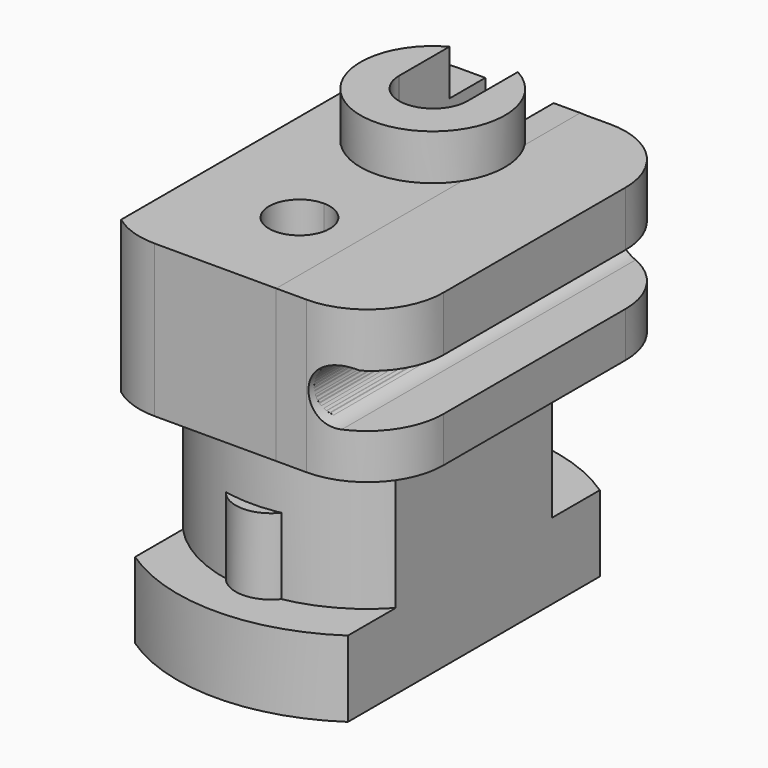
from build123d import *

# Parameters (mm, degrees)
F0_R      = 12.5
F1_DEPTH  = 5
F2_R      = 9.5
F3_DEPTH  = 10
F5_DEPTH  = 5
F7_W      = 30
F7_H      = 30
F7_W_2    = 15
F7_H_2    = 27
F8_DEPTH  = 10
F10_W     = 18
F10_H     = 25
F11_DEPTH = 10
F12_R     = 5
F13_R     = 4.75
F14_DEPTH = 3
F16_DEPTH = 25
F18_R     = 3.25
F19_DEPTH = 25
F22_DEPTH = 10
F23_W     = 15.5848370632
F23_H     = 13.4339891374
F24_DEPTH = 3
F29_W     = 21.2960224599
F29_H     = 32.8733809292
F30_DEPTH = 35
F33_DEPTH = 10
F34_R     = 5


with BuildPart() as f1:
    # F0 (on Top) → F1 (new body)
    with BuildSketch(Plane.XY):
        Circle(F0_R)
    extrude(amount=-F1_DEPTH)

    # F2 (on Top) → F3 (join)
    with BuildSketch(Plane.XY):
        Circle(F2_R)
    extrude(amount=F3_DEPTH)


with BuildPart() as f5:
    # F4 (on Top) → F5 (new body)
    with BuildSketch(Plane.XY):
        with BuildLine():
            ThreePointArc((-2.19192449, 8.7487287819), (-0.0332522533, 9.0190732649), (2.1273547272, 8.7646534521))
            ThreePointArc((2.1273547272, 8.7646534521), (-0.0376344683, 10.2076699565), (-2.19192449, 8.7487287819))
        make_face()
    extrude(amount=F5_DEPTH)


with BuildPart() as f6_1:
    # F6: instance of F5
    add(f5.part.mirror(Plane.XZ))


with BuildPart() as f8:
    # F7 (on Top) → F8 (new body, symmetric)
    with BuildSketch(Plane.XY):
        Rectangle(F7_W, F7_H)
        Rectangle(F7_W_2, F7_H_2, mode=Mode.SUBTRACT)
    extrude(amount=F8_DEPTH, both=True)


with BuildPart() as f1_1:
    add(f1.part)

    # F9: cut F8
    add(f8.part, mode=Mode.SUBTRACT)


with BuildPart() as f11:
    # F10 (on face) → F11 (new body)
    with BuildSketch(Plane.XY.offset(10)):
        Rectangle(F10_W, F10_H)
    extrude(amount=F11_DEPTH)

    # F12
    f12_edges = [f11.edges().sort_by_distance(p)[0] for p in [
        (-9, -12.5, 15),
        (9, -12.5, 15),
        (-9, 12.5, 15),
        (9, 12.5, 15),
    ]]
    fillet(f12_edges, radius=F12_R)

    # F13 (on face) → F14 (join)
    with BuildSketch(Plane.XY.offset(20)):
        with Locations((0, 5.3698644042)):
            Circle(F13_R)
    extrude(amount=F14_DEPTH)


with BuildPart() as f16:
    # F15 (on face) → F16 (new body)
    with BuildSketch(Plane.XY.offset(20)):
        with BuildLine():
            ThreePointArc((0, -3.5899061263), (-1.4142135624, -7.0041196886), (2, -5.5899061263))
            ThreePointArc((2, -5.5899061263), (1.4142135624, -4.1756925639), (0, -3.5899061263))
        make_face()
    extrude(amount=-F16_DEPTH)


with BuildPart() as f19:
    # F18 (on offset) → F19 (new body)
    with BuildSketch(Plane.XY.offset(17)):
        with Locations((0, -5.5899061263)):
            Circle(F18_R)
    extrude(amount=-F19_DEPTH)


with BuildPart() as f11_1:
    add(f11.part)

    # F20: cut F19, F16
    add(f19.part, mode=Mode.SUBTRACT)
    add(f16.part, mode=Mode.SUBTRACT)


with BuildPart() as f1_2:
    add(f1_1.part)

    # F20: cut F19, F16
    add(f19.part, mode=Mode.SUBTRACT)
    add(f16.part, mode=Mode.SUBTRACT)


with BuildPart() as f22:
    # F21 (on face) → F22 (new body)
    with BuildSketch(Plane.XY.offset(23)):
        with BuildLine():
            Line((-2.2496000585, 5.3767825914), (-2.2496000585, 5.4616254317))
            ThreePointArc((-2.2496000585, 5.4616254317), (-2.25, 5.4192040116), (-2.2496000585, 5.3767825914))
        make_face()
        with BuildLine():
            Line((-2.2496000585, 13.2603423141), (-2.2496000585, 5.4616254317))
            Line((-2.2496000585, 5.4616254317), (-2.2496000585, 5.3767825914))
            ThreePointArc((-2.2496000585, 5.3767825914), (0.0211542744, 3.1693034589), (2.2499999971, 5.4190892499))
            Line((2.2499999971, 5.4190892499), (2.2503999415, 13.2603423141))
            Line((2.2503999415, 13.2603423141), (-2.2496000585, 13.2603423141))
        make_face()
    extrude(amount=-F22_DEPTH)


with BuildPart() as f24:
    # F23 (on Right) → F24 (new body, symmetric)
    with BuildSketch(Plane.YZ):
        with Locations((8.6143131484, 18.0006176233)):
            Rectangle(F23_W, F23_H)
        with BuildLine():
            ThreePointArc((11.3841668327, 13.0113540217), (5.2042632853, 16.3271376428), (3.1254675568, 23.0252147695))
            Line((3.1254675568, 23.0252147695), (14.2911430448, 22.9898802936))
            Line((14.2911430448, 22.9898802936), (14.2911430448, 13.0113540217))
            Line((14.2911430448, 13.0113540217), (11.3841668327, 13.0113540217))
        make_face(mode=Mode.SUBTRACT)
    extrude(amount=F24_DEPTH, both=True)


with BuildPart() as f22_1:
    add(f22.part)

    # F25: cut F24
    add(f24.part, mode=Mode.SUBTRACT)


with BuildPart() as f11_2:
    add(f11_1.part)

    # F26: cut F22
    add(f22_1.part, mode=Mode.SUBTRACT)


with BuildPart() as f30:
    # F29 (on face) → F30 (new body)
    with BuildSketch(Plane(origin=(0, 0, -5), x_dir=(1, 0, 0), z_dir=(0, 0, -1))):
        Rectangle(F29_W, F29_H)
        with BuildLine():
            Line((-7, 10.3561575886), (-7, 13.5))
            Line((-7, 13.5), (7, 13.5))
            Line((7, 13.5), (7, 10.3561575886))
            ThreePointArc((7, 10.3561575886), (7.2521867086, 10.1811486554), (7.5, 10))
            Line((7.5, 10), (7.5, -10))
            ThreePointArc((7.5, -10), (7.2521867086, -10.1811486554), (7, -10.3561575886))
            Line((7, -10.3561575886), (7, -13.5))
            Line((7, -13.5), (-7, -13.5))
            Line((-7, -13.5), (-7, -10.3561575886))
            ThreePointArc((-7, -10.3561575886), (-7.2521867086, -10.1811486554), (-7.5, -10))
            Line((-7.5, -10), (-7.5, 10))
            ThreePointArc((-7.5, 10), (-7.2521867086, 10.1811486554), (-7, 10.3561575886))
        make_face(mode=Mode.SUBTRACT)
        with BuildLine():
            Line((-7, -10.3561575886), (-7, 10.3561575886))
            ThreePointArc((-7, 10.3561575886), (-7.2521867086, 10.1811486554), (-7.5, 10))
            Line((-7.5, 10), (-7.5, -10))
            ThreePointArc((-7.5, -10), (-7.2521867086, -10.1811486554), (-7, -10.3561575886))
        make_face()
        with BuildLine():
            ThreePointArc((7.5, 10), (7.2521867086, 10.1811486554), (7, 10.3561575886))
            Line((7, 10.3561575886), (7, -10.3561575886))
            ThreePointArc((7, -10.3561575886), (7.2521867086, -10.1811486554), (7.5, -10))
            Line((7.5, -10), (7.5, 10))
        make_face()
    extrude(amount=-F30_DEPTH)


with BuildPart() as f11_3:
    add(f11_2.part)

    # F31: cut F30
    add(f30.part, mode=Mode.SUBTRACT)


with BuildPart() as f6_1_1:
    add(f6_1.part)

    # F31: cut F30
    add(f30.part, mode=Mode.SUBTRACT)


with BuildPart() as f5_1:
    add(f5.part)

    # F31: cut F30
    add(f30.part, mode=Mode.SUBTRACT)


with BuildPart() as f1_3:
    add(f1_2.part)

    # F31: cut F30
    add(f30.part, mode=Mode.SUBTRACT)


with BuildPart() as f33:
    # F32 (on face) → F33 (new body)
    with BuildSketch(Plane(origin=(0, 0, 10), x_dir=(1, 0, 0), z_dir=(0, 0, -1))):
        Polygon((11, 12.5), (4, 12.5), (4, -12.4740964633), (11, -12.5), align=None)
    extrude(amount=-F33_DEPTH)

    # F34
    f34_edges = [f33.edges().sort_by_distance(p)[0] for p in [
        (11, 12.5, 15),
        (11, -12.5, 15),
    ]]
    fillet(f34_edges, radius=F34_R)


with BuildPart() as f35:
    # F35: sweep along a path in F27
    with BuildLine(Plane.XY) as f35_path:
        Line((4.9848833789, -15.7563891262), (4.9848833789, 9.1055910668))
        Line((4.9848833789, 9.1055910668), (4.9848833789, 13.8200307265))
    # F28 (on Front) → F35 (sweep)
    with BuildSketch(Plane.XZ):
        with BuildLine():
            Line((12.2512793168, 16.3550041616), (8.8115982367, 16.4517947039))
            ThreePointArc((8.8115982367, 16.4517947039), (6.1696448053, 15.2331387236), (7.9789617133, 12.9546715506))
            Line((7.9789617133, 12.9546715506), (12.2512793168, 12.9768972261))
            Line((12.2512793168, 12.9768972261), (12.2512793168, 16.3550041616))
        make_face()
    sweep(path=f35_path.line)


with BuildPart() as f11_4:
    add(f11_3.part)

    # F36: cut F35
    add(f35.part, mode=Mode.SUBTRACT)


with BuildPart() as f33_1:
    add(f33.part)

    # F36: cut F35
    add(f35.part, mode=Mode.SUBTRACT)


solid = Compound([f6_1_1.part, f5_1.part, f1_3.part, f11_4.part, f33_1.part])
